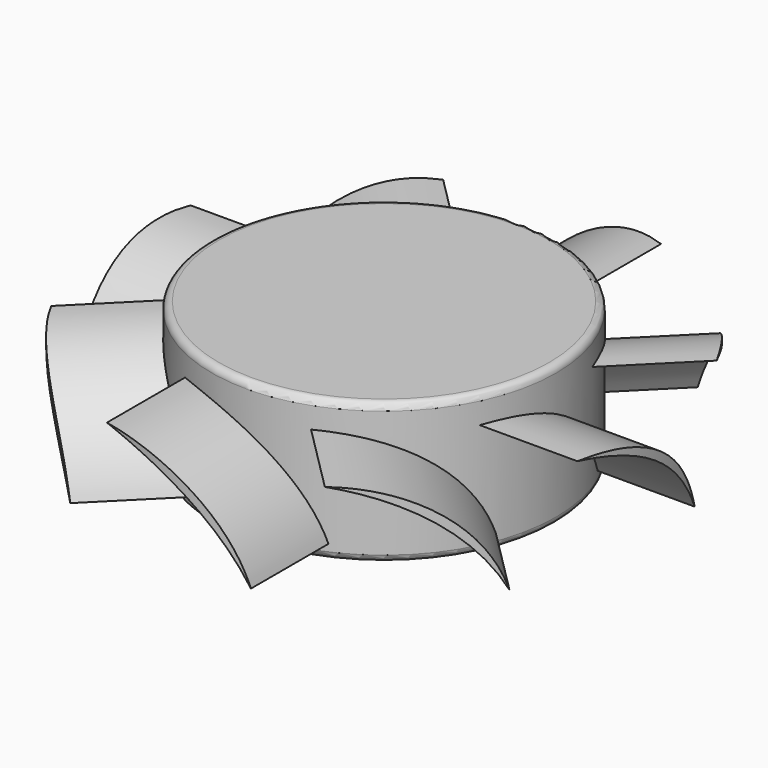
from build123d import *

# Parameters (mm, degrees)
SKETCH044_R           = 12.25
PAD014_DEPTH          = 10
FILLET017_R           = 0.5
PAD015_DEPTH          = 7.5
SKETCH045_R           = 32.89
SKETCH045_R_2         = 18.75
POCKET013_DEPTH       = 94.210561
POLARPATTERN002_COUNT = 8


with BuildPart() as part:
    # Sketch044 → Pad014 (new body)
    with BuildSketch(Plane.XY):
        Circle(SKETCH044_R)
    extrude(amount=PAD014_DEPTH)

    # Fillet017
    fillet017_edges = [part.edges().sort_by_distance(p)[0] for p in [
        (-12.25, 0, 10),
        (-12.25, 0, 0),
    ]]
    fillet(fillet017_edges, radius=FILLET017_R)

    # Sketch048 (on DatumPlane) → Pad015 (join, symmetric)
    with BuildSketch(Plane(origin=(0, 13, -2), x_dir=(1, 0, 0), z_dir=(0, -1, 0))):
        with BuildLine():
            ThreePointArc((5.3, 10), (-1.072659, 8.299055), (-5, 3))
            ThreePointArc((5.3, 10), (-0.742753, 7.813623), (-5, 3))
        make_face()
    pad015 = extrude(amount=PAD015_DEPTH, both=True)

    # Sketch045 (on Face7 of Pad015) → Pocket013 (cut, through all)
    with BuildSketch(Plane.XY.offset(10)):
        Circle(SKETCH045_R)
        Circle(SKETCH045_R_2, mode=Mode.SUBTRACT)
    pocket013 = extrude(amount=-POCKET013_DEPTH, mode=Mode.SUBTRACT)

    # PolarPattern002: Pad015, Pocket013 ×8 about axis
    polarpattern002_axis = Axis((0, 0, 0), (0, 0, 1))
    for i in range(1, POLARPATTERN002_COUNT):
        add(pad015.rotate(polarpattern002_axis, i * 360 / POLARPATTERN002_COUNT))
        add(pocket013.rotate(polarpattern002_axis, i * 360 / POLARPATTERN002_COUNT), mode=Mode.SUBTRACT)


solid = part.part
